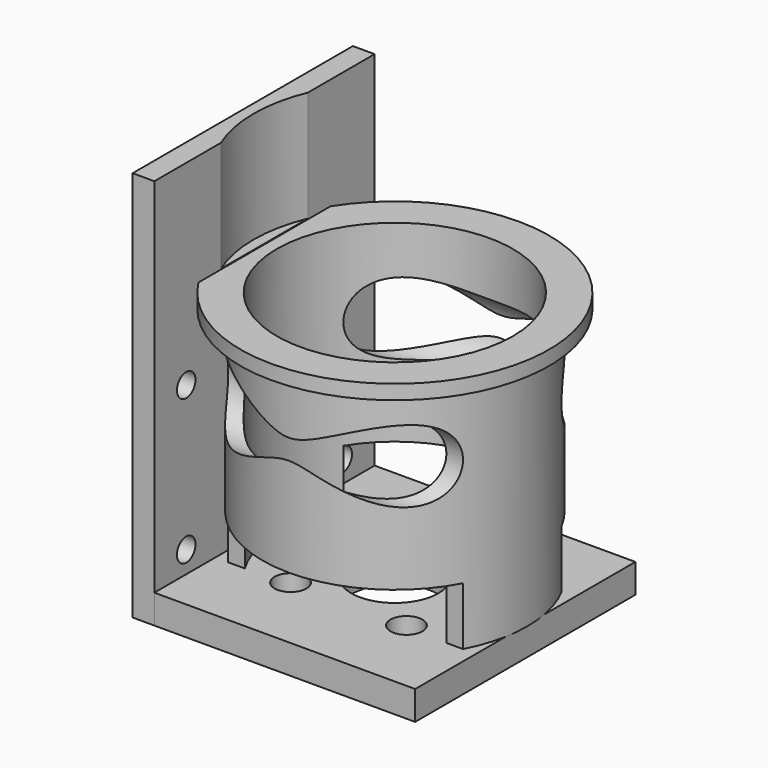
from build123d import *

# Parameters (mm, degrees)
SKETCH002_R       = 18.3
SKETCH002_R_2     = 16.3
PAD002_DEPTH      = 33.6
SKETCH003_R       = 5
SKETCH003_W       = 10
SKETCH003_H       = 10
POCKET_DEPTH      = 18.301
POCKET_DEPTH_BACK = 18.301
SKETCH005_R       = 16.3
PAD003_DEPTH      = 1
SKETCH_W          = 36
SKETCH_H          = 38
SKETCH_R          = 6
SKETCH_R_2        = 2.2
PAD_DEPTH         = 4
SKETCH001_W       = 3
SKETCH001_H       = 38
PAD001_DEPTH      = 50
PAD001_DEPTH_BACK = 4
SKETCH004_R       = 1.6
POCKET001_DEPTH   = 21.001
POCKET002_DEPTH   = 15.3


with BuildPart() as obj1:
    # Sketch002 → Pad002 (new body)
    with BuildSketch(Plane.XY):
        Circle(SKETCH002_R)
        Circle(SKETCH002_R_2, mode=Mode.SUBTRACT)
    extrude(amount=PAD002_DEPTH)

    # Sketch003 → Pocket (cut, two sides)
    with BuildSketch(Plane.YZ) as pocket_sk:
        with Locations((13.5, 23)):
            Circle(SKETCH003_R)
        with Locations((-13.5, 23)):
            Circle(SKETCH003_R)
        with Locations((13.5, 3)):
            Rectangle(SKETCH003_W, SKETCH003_H)
        with Locations((-13.5, 3)):
            Rectangle(SKETCH003_W, SKETCH003_H)
    extrude(amount=-POCKET_DEPTH, mode=Mode.SUBTRACT)
    extrude(pocket_sk.sketch, amount=POCKET_DEPTH_BACK, mode=Mode.SUBTRACT)

    # Sketch005 → Pad003 (join, symmetric)
    with BuildSketch(Plane.XY.offset(33.6)):
        with BuildLine():
            ThreePointArc((-18, -11.388152), (21.3, 0), (-18, 11.388152))
            Line((-18, 11.388152), (-18, -11.388152))
        make_face()
        Circle(SKETCH005_R, mode=Mode.SUBTRACT)
    extrude(amount=PAD003_DEPTH, both=True)


with BuildPart() as obj2:
    # Sketch → Pad (new body)
    with BuildSketch(Plane.XY):
        Rectangle(SKETCH_W, SKETCH_H)
        Circle(SKETCH_R, mode=Mode.SUBTRACT)
        with Locations((8, 8)):
            Circle(SKETCH_R_2, mode=Mode.SUBTRACT)
        with Locations((8, -8)):
            Circle(SKETCH_R_2, mode=Mode.SUBTRACT)
        with Locations((-8, 8)):
            Circle(SKETCH_R_2, mode=Mode.SUBTRACT)
        with Locations((-8, -8)):
            Circle(SKETCH_R_2, mode=Mode.SUBTRACT)
    extrude(amount=-PAD_DEPTH)


with BuildPart() as obj3:
    # Sketch001 → Pad001 (new body, two sides)
    with BuildSketch(Plane.XY) as pad001_sk:
        with Locations((-19.5, 0)):
            Rectangle(SKETCH001_W, SKETCH001_H)
    extrude(amount=PAD001_DEPTH)
    extrude(pad001_sk.sketch, amount=-PAD001_DEPTH_BACK)

    # Sketch004 → Pocket001 (cut, through all)
    with BuildSketch(Plane.YZ):
        with Locations((13.5, 3)):
            Circle(SKETCH004_R)
        with Locations((-13.5, 3)):
            Circle(SKETCH004_R)
        with Locations((-13.5, 23)):
            Circle(SKETCH004_R)
        with Locations((13.5, 23)):
            Circle(SKETCH004_R)
    extrude(amount=-POCKET001_DEPTH, mode=Mode.SUBTRACT)

    # Sketch006 (on Face5 of Pocket001) → Pocket002 (cut)
    with BuildSketch(Plane.XY.offset(50)):
        with BuildLine():
            Line((-18, 7.5), (-18, -7.5))
            ThreePointArc((-18, 7.5), (-19.5, 0), (-18, -7.5))
        make_face()
    extrude(amount=-POCKET002_DEPTH, mode=Mode.SUBTRACT)


solid = Compound([obj1.part, obj2.part, obj3.part])
